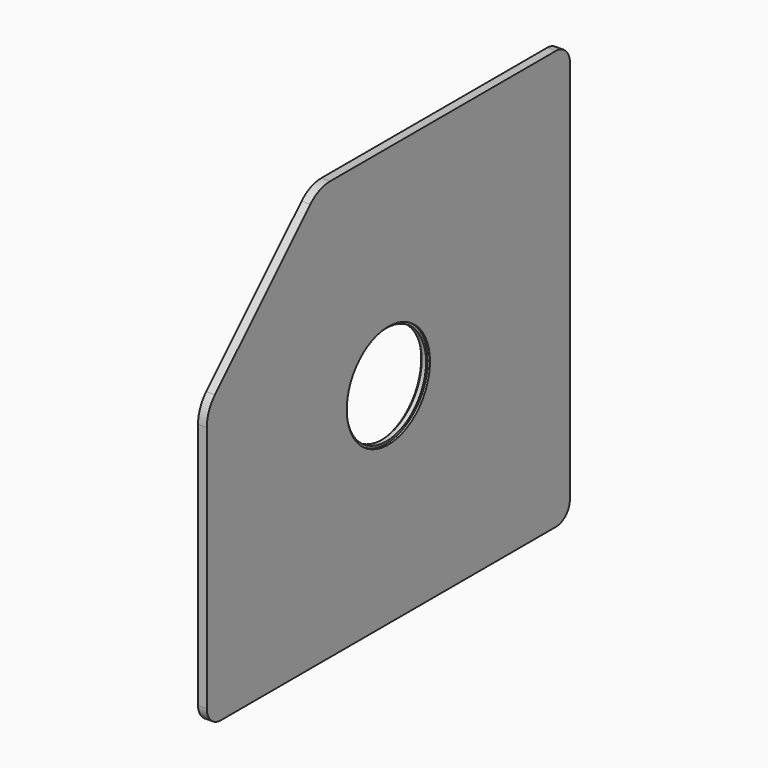
from build123d import *

# Parameters (mm, degrees)
F1_DEPTH = 12.7
F2_R     = 72.517
F3_DEPTH = 12.701
F4_R     = 75.692
F5_DEPTH = 3.175
F6_R     = 75.692
F7_DEPTH = 3.175


with BuildPart() as f1:
    # F0 (on Right) → F1 (new body)
    with BuildSketch(Plane.YZ):
        with BuildLine():
            ThreePointArc((330.2, 279.4), (322.760512, 297.360512), (304.8, 304.8))
            Line((304.8, 304.8), (-105.957951, 304.8))
            ThreePointArc((-105.957951, 304.8), (-125.398269, 300.93308), (-141.878976, 289.921024))
            Line((-141.878976, 289.921024), (-315.321024, 116.478976))
            ThreePointArc((-315.321024, 116.478976), (-326.33308, 99.998269), (-330.2, 80.557951))
            Line((-330.2, 80.557951), (-330.2, -279.4))
            ThreePointArc((-330.2, -279.4), (-322.760512, -297.360512), (-304.8, -304.8))
            Line((-304.8, -304.8), (304.8, -304.8))
            ThreePointArc((304.8, -304.8), (322.760512, -297.360512), (330.2, -279.4))
            Line((330.2, -279.4), (330.2, 279.4))
        make_face()
    extrude(amount=F1_DEPTH)

    # F2 (on face) → F3 (cut, through all)
    with BuildSketch(Plane.YZ.offset(12.7)):
        Circle(F2_R)
    extrude(amount=-F3_DEPTH, mode=Mode.SUBTRACT)

    # F4 (on face) → F5 (cut)
    with BuildSketch(Plane.YZ.offset(12.7)):
        Circle(F4_R)
    extrude(amount=-F5_DEPTH, mode=Mode.SUBTRACT)

    # F6 (on face) → F7 (cut)
    with BuildSketch(Plane(origin=(0, 0, 0), x_dir=(0, -1, 0), z_dir=(-1, 0, 0))):
        Circle(F6_R)
    extrude(amount=-F7_DEPTH, mode=Mode.SUBTRACT)


solid = f1.part
